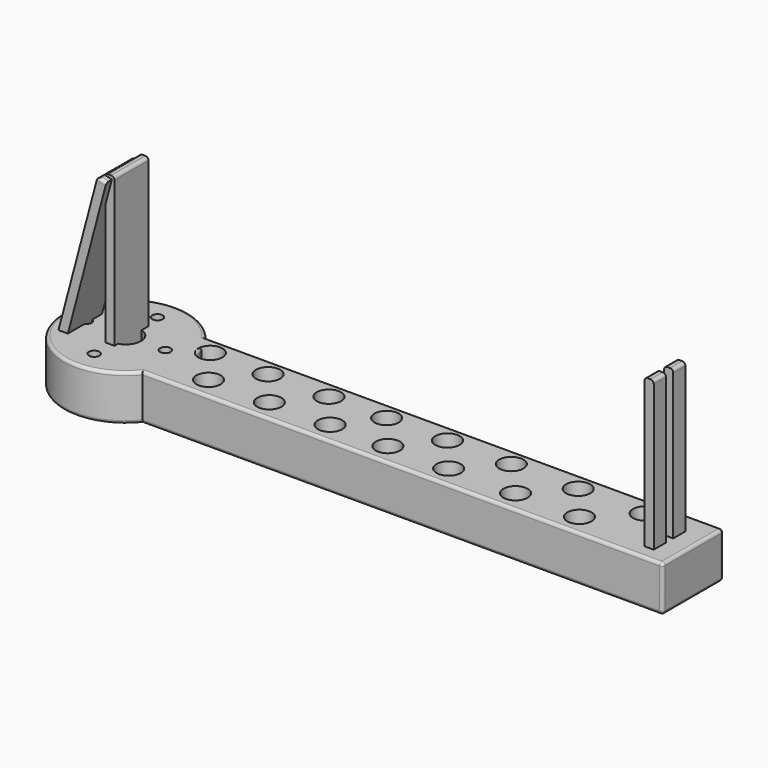
from build123d import *

# Parameters (mm, degrees)
BOX001_W               = 53
BOX001_H               = 3
BOX001_DEPTH           = 14
BOX001_ROLL_ANGLE      = 90.34037
BOX001_PITCH_ANGLE     = -75.087075
BOX001_PLACEMENT_ANGLE = -0.50396
FILLET003_R            = 1
BOX003_W               = 53
BOX003_H               = 3
BOX003_DEPTH           = 5
FILLET004_R            = 1
BOX004_W               = 53
BOX004_H               = 3
BOX004_DEPTH           = 5
FILLET005_R            = 1
BOX002_W               = 53
BOX002_H               = 3
BOX002_DEPTH           = 14
FILLET002_R            = 1
CYLINDER008_R          = 1.75
CYLINDER008_DEPTH      = 15
CYLINDER004_R          = 1.75
CYLINDER004_DEPTH      = 15
CYLINDER006_R          = 1.75
CYLINDER006_DEPTH      = 15
CYLINDER007_R          = 1.75
CYLINDER007_DEPTH      = 15
CYLINDER_R             = 5
CYLINDER_DEPTH         = 15
CYLINDER005_R          = 20.5
CYLINDER005_DEPTH      = 15
FILLET_R               = 1
BOX_W                  = 172
BOX_H                  = 25
BOX_DEPTH              = 15
FILLET001_R            = 1
FILLET006_R            = 1


with BuildPart() as fillet003:
    # Box001 → Box001 (new body)
    with BuildSketch(Plane.XY):
        with Locations((26.5, 1.5)):
            Rectangle(BOX001_W, BOX001_H)
    extrude(amount=BOX001_DEPTH)


with BuildPart() as fillet003_1:
    # Box001 roll: moved
    add(fillet003.part.rotate(Axis((0, 0, 0), (1, 0, 0)), BOX001_ROLL_ANGLE))


with BuildPart() as fillet003_2:
    # Box001 pitch: moved
    add(fillet003_1.part.rotate(Axis((0, 0, 0), (0, 1, 0)), BOX001_PITCH_ANGLE))


with BuildPart() as fillet003_3:
    # Box001 placement: moved
    add(fillet003_2.part.moved(Location((-28.12107, 18.526277, 11.676697))).rotate(Axis((-28.12107, 18.526277, 11.676697), (0, 0, 1)), BOX001_PLACEMENT_ANGLE))

    # Fillet003
    fillet003_edges = [fillet003_3.edges().sort_by_distance(p)[0] for p in [
        (-15.974254, 4.410228, 63.25617),
        (-17.402341, 11.414026, 63.652891),
    ]]
    fillet(fillet003_edges, radius=FILLET003_R)


with BuildPart() as fillet004:
    # Box003 → Box003 (new body)
    with BuildSketch(Plane(origin=(-15.68, 12.67, 11), x_dir=(0, 0, 1), z_dir=(0, 1, 0))):
        with Locations((26.5, 1.5)):
            Rectangle(BOX003_W, BOX003_H)
    extrude(amount=BOX003_DEPTH)

    # Fillet004
    fillet004_edges = [fillet004.edges().sort_by_distance(p)[0] for p in [
        (-15.68, 15.17, 64),
        (-12.68, 15.17, 64),
    ]]
    fillet(fillet004_edges, radius=FILLET004_R)


with BuildPart() as fillet004_1:
    # Fillet004 placement: moved
    add(fillet004.part.moved(Location((178, 0, 0))))


with BuildPart() as fillet005:
    # Box004 → Box004 (new body)
    with BuildSketch(Plane(origin=(-15.68, 12.67, 11), x_dir=(0, 0, 1), z_dir=(0, 1, 0))):
        with Locations((26.5, 1.5)):
            Rectangle(BOX004_W, BOX004_H)
    extrude(amount=BOX004_DEPTH)

    # Fillet005
    fillet005_edges = [fillet005.edges().sort_by_distance(p)[0] for p in [
        (-15.68, 15.17, 64),
        (-12.68, 15.17, 64),
    ]]
    fillet(fillet005_edges, radius=FILLET005_R)


with BuildPart() as fillet005_1:
    # Fillet005 placement: moved
    add(fillet005.part.moved(Location((178, -8, 0))))


with BuildPart() as legs:
    # Box002 → Box002 (new body)
    with BuildSketch(Plane(origin=(-16.68, 6.66963, 11), x_dir=(0, 0, 1), z_dir=(0, 1, 0))):
        with Locations((26.5, 1.5)):
            Rectangle(BOX002_W, BOX002_H)
    extrude(amount=BOX002_DEPTH)

    # Fillet002
    fillet002_edges = [legs.edges().sort_by_distance(p)[0] for p in [
        (-16.68, 13.66963, 64),
        (-13.68, 13.66963, 64),
    ]]
    fillet(fillet002_edges, radius=FILLET002_R)

    # Fusion: union Fillet003, Fillet004, Fillet005
    add(fillet003_3.part)
    add(fillet004_1.part)
    add(fillet005_1.part)


with BuildPart() as cylinder008:
    # Cylinder008 → Cylinder008 (new body)
    with BuildSketch(Plane(origin=(47, 62, 0), x_dir=(1, 0, 0), z_dir=(0, 0, 1))):
        Circle(CYLINDER008_R)
    extrude(amount=CYLINDER008_DEPTH)


with BuildPart() as cylinder004:
    # Cylinder004 → Cylinder004 (new body)
    with BuildSketch(Plane(origin=(34, 75, 0), x_dir=(1, 0, 0), z_dir=(0, 0, 1))):
        Circle(CYLINDER004_R)
    extrude(amount=CYLINDER004_DEPTH)


with BuildPart() as cylinder006:
    # Cylinder006 → Cylinder006 (new body)
    with BuildSketch(Plane(origin=(60, 75, 0), x_dir=(1, 0, 0), z_dir=(0, 0, 1))):
        Circle(CYLINDER006_R)
    extrude(amount=CYLINDER006_DEPTH)


with BuildPart() as cylinder007:
    # Cylinder007 → Cylinder007 (new body)
    with BuildSketch(Plane(origin=(47, 88, 0), x_dir=(1, 0, 0), z_dir=(0, 0, 1))):
        Circle(CYLINDER007_R)
    extrude(amount=CYLINDER007_DEPTH)


with BuildPart() as cylinder:
    # Cylinder → Cylinder (new body)
    with BuildSketch(Plane(origin=(47, 75, 0), x_dir=(1, 0, 0), z_dir=(0, 0, 1))):
        Circle(CYLINDER_R)
    extrude(amount=CYLINDER_DEPTH)


with BuildPart() as fillet_body:
    # Cylinder005 → Cylinder005 (new body)
    with BuildSketch(Plane(origin=(47, 75, 0), x_dir=(1, 0, 0), z_dir=(0, 0, 1))):
        Circle(CYLINDER005_R)
    extrude(amount=CYLINDER005_DEPTH)

    # Cut: cut Cylinder
    add(cylinder.part, mode=Mode.SUBTRACT)

    # Cut001: cut Cylinder007
    add(cylinder007.part, mode=Mode.SUBTRACT)

    # Cut002: cut Cylinder006
    add(cylinder006.part, mode=Mode.SUBTRACT)

    # Cut003: cut Cylinder004
    add(cylinder004.part, mode=Mode.SUBTRACT)

    # Cut004: cut Cylinder008
    add(cylinder008.part, mode=Mode.SUBTRACT)

    # Fillet
    fillet_edges = [fillet_body.edges().sort_by_distance(p)[0] for p in [
        (26.5, 75, 15),
        (26.5, 75, 0),
    ]]
    fillet(fillet_edges, radius=FILLET_R)


with BuildPart() as fillet_body_1:
    # Fillet placement: moved
    add(fillet_body.part.moved(Location((-62, -62, 0))))


with BuildPart() as cone002:
    # Cone002 → Cone002 (revolve)
    with BuildSketch(Plane(origin=(129, 19, -15), x_dir=(1, 0, 0), z_dir=(0, -1, 0))):
        Polygon((0, 0), (2, 0), (4, 30), (0, 30), align=None)
    revolve(axis=Axis((129, 19, -15), (0, 0, 1)))


with BuildPart() as cone003:
    # Cone003 → Cone003 (revolve)
    with BuildSketch(Plane(origin=(118, 7, -15), x_dir=(1, 0, 0), z_dir=(0, -1, 0))):
        Polygon((0, 0), (2, 0), (4, 30), (0, 30), align=None)
    revolve(axis=Axis((118, 7, -15), (0, 0, 1)))


with BuildPart() as cone004:
    # Cone004 → Cone004 (revolve)
    with BuildSketch(Plane(origin=(107, 19, -15), x_dir=(1, 0, 0), z_dir=(0, -1, 0))):
        Polygon((0, 0), (2, 0), (4, 30), (0, 30), align=None)
    revolve(axis=Axis((107, 19, -15), (0, 0, 1)))


with BuildPart() as cone005:
    # Cone005 → Cone005 (revolve)
    with BuildSketch(Plane(origin=(86, 19, -15), x_dir=(1, 0, 0), z_dir=(0, -1, 0))):
        Polygon((0, 0), (2, 0), (4, 30), (0, 30), align=None)
    revolve(axis=Axis((86, 19, -15), (0, 0, 1)))


with BuildPart() as cone006:
    # Cone006 → Cone006 (revolve)
    with BuildSketch(Plane(origin=(66, 19, -15), x_dir=(1, 0, 0), z_dir=(0, -1, 0))):
        Polygon((0, 0), (2, 0), (4, 30), (0, 30), align=None)
    revolve(axis=Axis((66, 19, -15), (0, 0, 1)))


with BuildPart() as cone007:
    # Cone007 → Cone007 (revolve)
    with BuildSketch(Plane(origin=(47, 19, -15), x_dir=(1, 0, 0), z_dir=(0, -1, 0))):
        Polygon((0, 0), (2, 0), (4, 30), (0, 30), align=None)
    revolve(axis=Axis((47, 19, -15), (0, 0, 1)))


with BuildPart() as cone009:
    # Cone009 → Cone009 (revolve)
    with BuildSketch(Plane(origin=(8, 19, -15), x_dir=(1, 0, 0), z_dir=(0, -1, 0))):
        Polygon((0, 0), (2, 0), (4, 30), (0, 30), align=None)
    revolve(axis=Axis((8, 19, -15), (0, 0, 1)))


with BuildPart() as cone008:
    # Cone008 → Cone008 (revolve)
    with BuildSketch(Plane(origin=(27, 19, -15), x_dir=(1, 0, 0), z_dir=(0, -1, 0))):
        Polygon((0, 0), (2, 0), (4, 30), (0, 30), align=None)
    revolve(axis=Axis((27, 19, -15), (0, 0, 1)))


with BuildPart() as cone011:
    # Cone011 → Cone011 (revolve)
    with BuildSketch(Plane(origin=(76, 7, -15), x_dir=(1, 0, 0), z_dir=(0, -1, 0))):
        Polygon((0, 0), (2, 0), (4, 30), (0, 30), align=None)
    revolve(axis=Axis((76, 7, -15), (0, 0, 1)))


with BuildPart() as cone012:
    # Cone012 → Cone012 (revolve)
    with BuildSketch(Plane(origin=(57, 7, -15), x_dir=(1, 0, 0), z_dir=(0, -1, 0))):
        Polygon((0, 0), (2, 0), (4, 30), (0, 30), align=None)
    revolve(axis=Axis((57, 7, -15), (0, 0, 1)))


with BuildPart() as cone013:
    # Cone013 → Cone013 (revolve)
    with BuildSketch(Plane(origin=(37, 7, -15), x_dir=(1, 0, 0), z_dir=(0, -1, 0))):
        Polygon((0, 0), (2, 0), (4, 30), (0, 30), align=None)
    revolve(axis=Axis((37, 7, -15), (0, 0, 1)))


with BuildPart() as cone014:
    # Cone014 → Cone014 (revolve)
    with BuildSketch(Plane(origin=(17, 7, -15), x_dir=(1, 0, 0), z_dir=(0, -1, 0))):
        Polygon((0, 0), (2, 0), (4, 30), (0, 30), align=None)
    revolve(axis=Axis((17, 7, -15), (0, 0, 1)))


with BuildPart() as cone010:
    # Cone010 → Cone010 (revolve)
    with BuildSketch(Plane(origin=(96, 7, -15), x_dir=(1, 0, 0), z_dir=(0, -1, 0))):
        Polygon((0, 0), (2, 0), (4, 30), (0, 30), align=None)
    revolve(axis=Axis((96, 7, -15), (0, 0, 1)))


with BuildPart() as cone001:
    # Cone001 → Cone001 (revolve)
    with BuildSketch(Plane(origin=(139, 7, -15), x_dir=(1, 0, 0), z_dir=(0, -1, 0))):
        Polygon((0, 0), (2, 0), (4, 30), (0, 30), align=None)
    revolve(axis=Axis((139, 7, -15), (0, 0, 1)))


with BuildPart() as cone:
    # Cone → Cone (revolve)
    with BuildSketch(Plane(origin=(151, 19, -15), x_dir=(1, 0, 0), z_dir=(0, -1, 0))):
        Polygon((0, 0), (2, 0), (4, 30), (0, 30), align=None)
    revolve(axis=Axis((151, 19, -15), (0, 0, 1)))


with BuildPart() as top:
    # Box → Box (new body)
    with BuildSketch(Plane.XY):
        with Locations((86, 12.5)):
            Rectangle(BOX_W, BOX_H)
    extrude(amount=BOX_DEPTH)

    # Fillet001
    fillet001_edges = [top.edges().sort_by_distance(p)[0] for p in [
        (86, 0, 0),
        (86, 0, 15),
        (86, 25, 0),
        (86, 25, 15),
    ]]
    fillet(fillet001_edges, radius=FILLET001_R)

    # Cut005: cut Cone
    add(cone.part, mode=Mode.SUBTRACT)

    # Fillet006
    fillet006_edges = [top.edges().sort_by_distance(p)[0] for p in [
        (172, 0, 7.5),
        (172, 12.5, 0),
        (172, 12.5, 15),
        (172, 25, 7.5),
    ]]
    fillet(fillet006_edges, radius=FILLET006_R)

    # Cut006: cut Cone001
    add(cone001.part, mode=Mode.SUBTRACT)

    # Cut007: cut Cone010
    add(cone010.part, mode=Mode.SUBTRACT)

    # Cut008: cut Cone014
    add(cone014.part, mode=Mode.SUBTRACT)

    # Cut009: cut Cone013
    add(cone013.part, mode=Mode.SUBTRACT)

    # Cut010: cut Cone012
    add(cone012.part, mode=Mode.SUBTRACT)

    # Cut011: cut Cone011
    add(cone011.part, mode=Mode.SUBTRACT)

    # Cut012: cut Cone008
    add(cone008.part, mode=Mode.SUBTRACT)

    # Cut013: cut Cone009
    add(cone009.part, mode=Mode.SUBTRACT)

    # Cut014: cut Cone007
    add(cone007.part, mode=Mode.SUBTRACT)

    # Cut015: cut Cone006
    add(cone006.part, mode=Mode.SUBTRACT)

    # Cut016: cut Cone005
    add(cone005.part, mode=Mode.SUBTRACT)

    # Cut017: cut Cone004
    add(cone004.part, mode=Mode.SUBTRACT)

    # Cut018: cut Cone003
    add(cone003.part, mode=Mode.SUBTRACT)

    # Cut019: cut Cone002
    add(cone002.part, mode=Mode.SUBTRACT)

    # Fusion001: union Fillet body
    add(fillet_body_1.part)


solid = Compound([legs.part, top.part])
